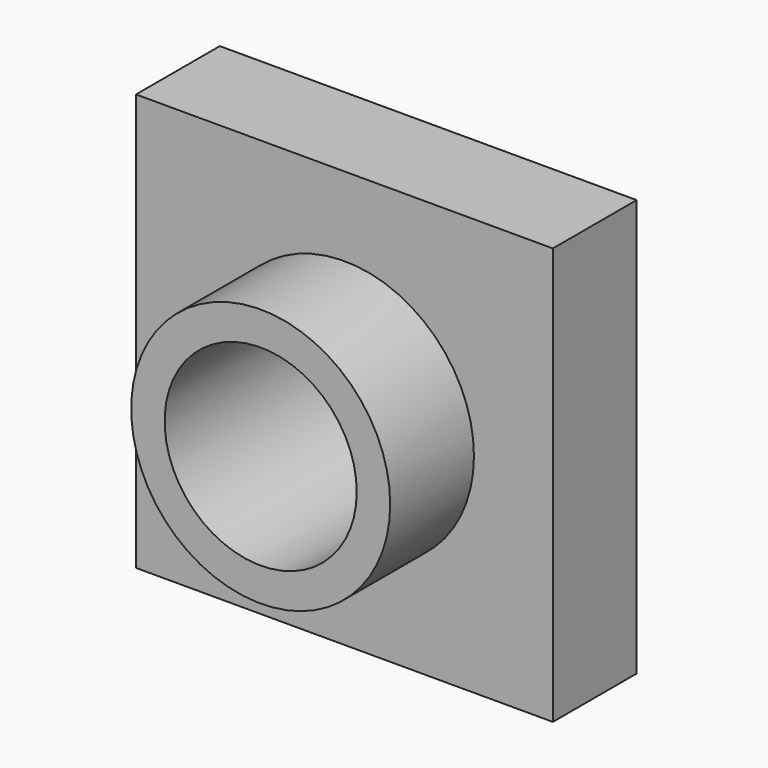
from build123d import *

# Parameters (mm, degrees)
F0_W     = 101.125694
F0_H     = 101.125694
F0_R     = 31.418427
F1_DEPTH = 25.4
F0_R_2   = 23.299348
F2_DEPTH = 50.8


with BuildPart() as f1:
    # F0 (on Front) → F1 (new body)
    with BuildSketch(Plane.XZ):
        Rectangle(F0_W, F0_H)
        Circle(F0_R, mode=Mode.SUBTRACT)
    extrude(amount=F1_DEPTH)

    # F0 (on Front) → F2 (join)
    with BuildSketch(Plane.XZ):
        Circle(F0_R)
        Circle(F0_R_2, mode=Mode.SUBTRACT)
    extrude(amount=F2_DEPTH)


solid = f1.part
